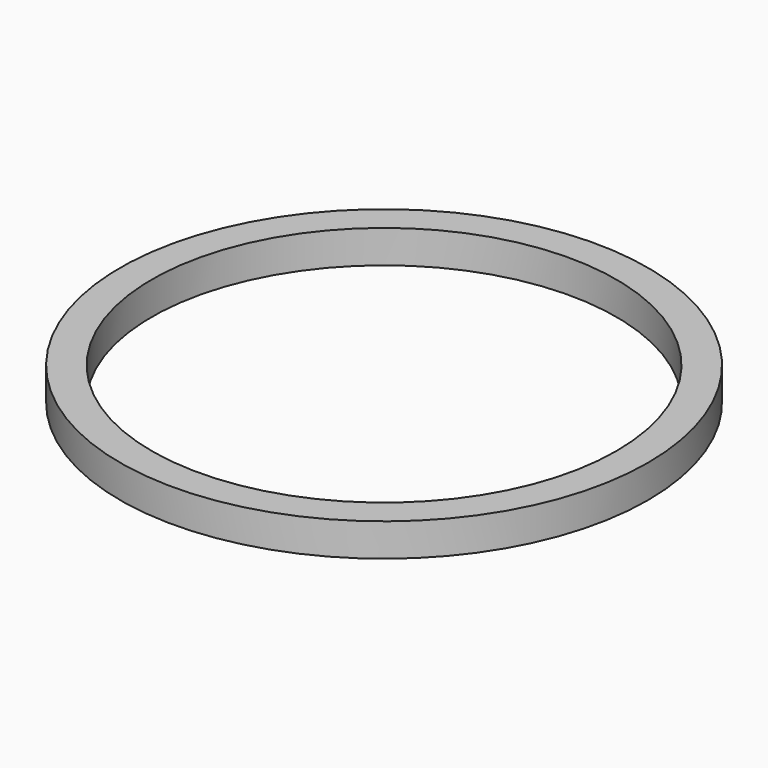
from build123d import *

# Parameters (mm, degrees)
F0_R     = 15.875
F0_R_2   = 13.97
F1_DEPTH = 1.9812


with BuildPart() as f1:
    # F0 (on Top) → F1 (new body)
    with BuildSketch(Plane.XY):
        Circle(F0_R)
        Circle(F0_R_2, mode=Mode.SUBTRACT)
        Circle(F0_R)
        Circle(F0_R_2, mode=Mode.SUBTRACT)
    extrude(amount=F1_DEPTH)


solid = f1.part
